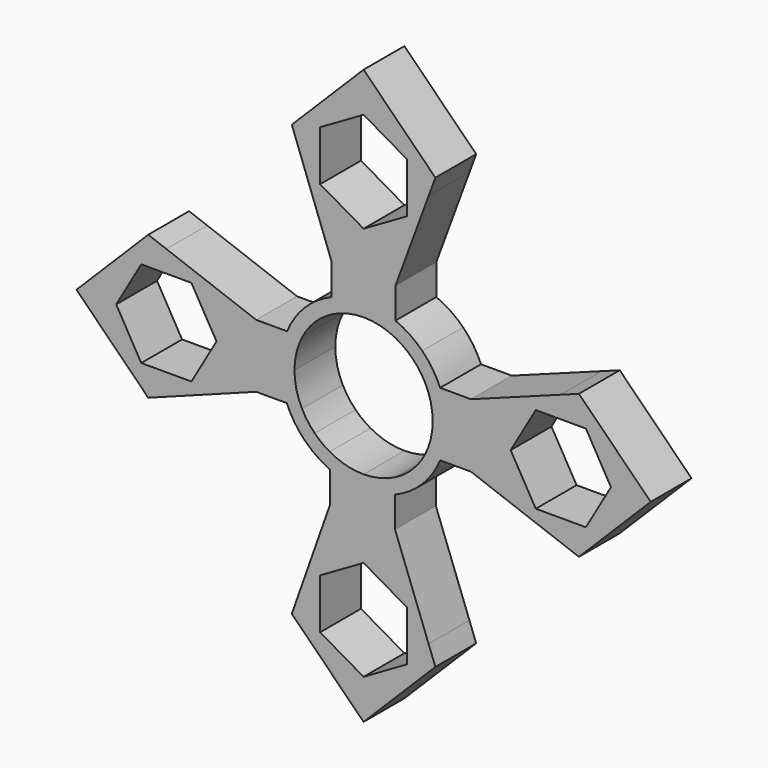
from build123d import *

# Parameters (mm, degrees)
F1_DEPTH = 8


with BuildPart() as f1:
    # F0 (on Front) → F1 (new body)
    with BuildSketch(Plane.XZ):
        Polygon((0, 23.0557063947), (0, 16.8315059189), (5, 16.8315059189), (10.202977498, 30.9157529595), (6.807, 30.9157529595), (6.807, 26.9857296771), align=None)
        Polygon((10.202977498, 30.9157529595), (11.25, 33.75), (0, 45), (0, 38.7757995242), (6.807, 34.8457762418), (6.807, 30.9157529595), align=None)
        Polygon((-5, 16.8315059189), (0, 16.8315059189), (0, 23.0557063947), (-6.807, 26.9857296771), (-6.807, 30.9157529595), (-10.202977498, 30.9157529595), align=None)
        Polygon((0, 45), (-11.25, 33.75), (-10.202977498, 30.9157529595), (-6.807, 30.9157529595), (-6.807, 34.8457762418), (0, 38.7757995242), align=None)
        Polygon((4.9234117813, -16.8315059189), (0, -16.8315059189), (0, -23.0557063947), (6.807, -26.9857296771), (6.807, -30.9157529595), (10.1901471638, -30.9157529595), align=None)
        Polygon((0, -45), (11.25, -33.75), (10.1901471638, -30.9157529595), (6.807, -30.9157529595), (6.807, -34.8457762418), (0, -38.7757995242), align=None)
        Polygon((0, -23.0557063947), (0, -16.8315059189), (-5.2934198313, -16.8315059189), (-10.2521322445, -30.9157529595), (-6.807, -30.9157529595), (-6.807, -26.9857296771), align=None)
        Polygon((-10.2521322445, -30.9157529595), (-11.25, -33.75), (0, -45), (0, -38.7757995242), (-6.807, -34.8457762418), (-6.807, -30.9157529595), align=None)
        Polygon((23.0557063947, 0), (16.8315059189, 0), (16.8315059189, -5), (30.9157529595, -10.202977498), (30.9157529595, -6.807), (26.9857296771, -6.807), align=None)
        Polygon((30.9157529595, -6.807), (30.9157529595, -10.202977498), (33.75, -11.25), (45, 0), (38.7757995242, 0), (34.8457762418, -6.807), align=None)
        Polygon((16.8315059189, 5), (16.8315059189, 0), (23.0557063947, 0), (26.9857296771, 6.807), (30.9157529595, 6.807), (30.9157529595, 10.202977498), align=None)
        Polygon((33.75, 11.25), (30.9157529595, 10.202977498), (30.9157529595, 6.807), (34.8457762418, 6.807), (38.7757995242, 0), (45, 0), align=None)
        Polygon((-23.0557063947, 0), (-16.8315059189, 0), (-16.8315059189, 5), (-30.9157529595, 10.202977498), (-30.9157529595, 6.807), (-26.9857296771, 6.807), align=None)
        Polygon((-30.9157529595, 10.202977498), (-33.75, 11.25), (-45, 0), (-38.7757995242, 0), (-34.8457762418, 6.807), (-30.9157529595, 6.807), align=None)
        Polygon((-16.8315059189, -4.9234117813), (-16.8315059189, 0), (-23.0557063947, 0), (-26.9857296771, -6.807), (-30.9157529595, -6.807), (-30.9157529595, -10.1901471638), align=None)
        Polygon((-45, 0), (-33.75, -11.25), (-30.9157529595, -10.1901471638), (-30.9157529595, -6.807), (-34.8457762418, -6.807), (-38.7757995242, 0), align=None)
        with BuildLine():
            Line((0, -16.8315059189), (0, -13))
            ThreePointArc((0, -13), (-2.7059805904, -12.7152534007), (-5.2934198313, -11.8734875453))
            Line((-5.2934198313, -11.8734875453), (-5.2934198313, -16.8315059189))
            Line((-5.2934198313, -16.8315059189), (0, -16.8315059189))
        make_face()
        with BuildLine():
            ThreePointArc((4.9234117813, -12.031625677), (2.5088708814, -12.7556092328), (0, -13))
            Line((0, -13), (0, -16.8315059189))
            Line((0, -16.8315059189), (4.9234117813, -16.8315059189))
            Line((4.9234117813, -16.8315059189), (4.9234117813, -12.031625677))
        make_face()
        with BuildLine():
            ThreePointArc((4.9234117813, -9.6478773263), (2.5318451875, -10.5314424662), (0, -10.8315059189))
            Line((0, -10.8315059189), (0, -13))
            ThreePointArc((0, -13), (2.5088708814, -12.7556092328), (4.9234117813, -12.031625677))
            Line((4.9234117813, -12.031625677), (4.9234117813, -9.6478773263))
        make_face()
        with BuildLine():
            Line((0, -13), (0, -10.8315059189))
            ThreePointArc((0, -10.8315059189), (-2.7353719229, -10.4804227451), (-5.2934198313, -9.4499326432))
            Line((-5.2934198313, -9.4499326432), (-5.2934198313, -11.8734875453))
            ThreePointArc((-5.2934198313, -11.8734875453), (-2.7059805904, -12.7152534007), (0, -13))
        make_face()
        with BuildLine():
            ThreePointArc((-5.2934198313, -9.4499326432), (-6.5378382821, -8.63586655), (-7.6590312857, -7.6590312857))
            Line((-7.6590312857, -7.6590312857), (-9.1923881554, -9.1923881554))
            ThreePointArc((-9.1923881554, -9.1923881554), (-7.3659168976, -10.7118284274), (-5.2934198313, -11.8734875453))
            Line((-5.2934198313, -11.8734875453), (-5.2934198313, -9.4499326432))
        make_face()
        with BuildLine():
            Line((-9.1923881554, -9.1923881554), (-7.6590312857, -7.6590312857))
            ThreePointArc((-7.6590312857, -7.6590312857), (-8.7608889358, -6.3693284989), (-9.6478773263, -4.9234117813))
            Line((-9.6478773263, -4.9234117813), (-12.031625677, -4.9234117813))
            ThreePointArc((-12.031625677, -4.9234117813), (-10.8245429747, -7.1992547802), (-9.1923881554, -9.1923881554))
        make_face()
        with BuildLine():
            ThreePointArc((-9.6478773263, -4.9234117813), (-10.5314424662, -2.5318451875), (-10.8315059189, 0))
            Line((-10.8315059189, 0), (-13, 0))
            ThreePointArc((-13, 0), (-12.7556092328, -2.5088708814), (-12.031625677, -4.9234117813))
            Line((-12.031625677, -4.9234117813), (-9.6478773263, -4.9234117813))
        make_face()
        with BuildLine():
            ThreePointArc((-12.031625677, -4.9234117813), (-12.7556092328, -2.5088708814), (-13, 0))
            Line((-13, 0), (-16.8315059189, 0))
            Line((-16.8315059189, 0), (-16.8315059189, -4.9234117813))
            Line((-16.8315059189, -4.9234117813), (-12.031625677, -4.9234117813))
        make_face()
        with BuildLine():
            Line((-16.8315059189, 0), (-13, 0))
            ThreePointArc((-13, 0), (-12.747548784, 2.5495097568), (-12, 5))
            Line((-12, 5), (-16.8315059189, 5))
            Line((-16.8315059189, 5), (-16.8315059189, 0))
        make_face()
        with BuildLine():
            Line((-13, 0), (-10.8315059189, 0))
            ThreePointArc((-10.8315059189, 0), (-10.5212893153, 2.5737116418), (-9.6084088418, 5))
            Line((-9.6084088418, 5), (-12, 5))
            ThreePointArc((-12, 5), (-12.747548784, 2.5495097568), (-13, 0))
        make_face()
        with BuildLine():
            ThreePointArc((-9.6084088418, 5), (-8.7354870491, 6.4041226165), (-7.6590312857, 7.6590312857))
            Line((-7.6590312857, 7.6590312857), (-9.1923881554, 9.1923881554))
            ThreePointArc((-9.1923881554, 9.1923881554), (-10.8015442666, 7.2337156051), (-12, 5))
            Line((-12, 5), (-9.6084088418, 5))
        make_face()
        with BuildLine():
            Line((-9.1923881554, 9.1923881554), (-7.6590312857, 7.6590312857))
            ThreePointArc((-7.6590312857, 7.6590312857), (-6.4041226165, 8.7354870491), (-5, 9.6084088418))
            Line((-5, 9.6084088418), (-5, 12))
            ThreePointArc((-5, 12), (-7.2337156051, 10.8015442666), (-9.1923881554, 9.1923881554))
        make_face()
        with BuildLine():
            Line((0, 16.8315059189), (0, 13))
            ThreePointArc((0, 13), (2.5495097568, 12.747548784), (5, 12))
            Line((5, 12), (5, 16.8315059189))
            Line((5, 16.8315059189), (0, 16.8315059189))
        make_face()
        with BuildLine():
            ThreePointArc((-5, 9.6084088418), (-2.5737116418, 10.5212893153), (0, 10.8315059189))
            Line((0, 10.8315059189), (0, 13))
            ThreePointArc((0, 13), (-2.5495097568, 12.747548784), (-5, 12))
            Line((-5, 12), (-5, 9.6084088418))
        make_face()
        with BuildLine():
            Line((0, 13), (0, 10.8315059189))
            ThreePointArc((0, 10.8315059189), (2.5737116418, 10.5212893153), (5, 9.6084088418))
            Line((5, 9.6084088418), (5, 12))
            ThreePointArc((5, 12), (2.5495097568, 12.747548784), (0, 13))
        make_face()
        with BuildLine():
            ThreePointArc((5, 9.6084088418), (6.4041226165, 8.7354870491), (7.6590312857, 7.6590312857))
            Line((7.6590312857, 7.6590312857), (9.1923881554, 9.1923881554))
            ThreePointArc((9.1923881554, 9.1923881554), (7.2337156051, 10.8015442666), (5, 12))
            Line((5, 12), (5, 9.6084088418))
        make_face()
        with BuildLine():
            ThreePointArc((7.6590312857, 7.6590312857), (8.7354870491, 6.4041226165), (9.6084088418, 5))
            Line((9.6084088418, 5), (12, 5))
            ThreePointArc((12, 5), (10.8015442666, 7.2337156051), (9.1923881554, 9.1923881554))
            Line((9.1923881554, 9.1923881554), (7.6590312857, 7.6590312857))
        make_face()
        with BuildLine():
            ThreePointArc((9.6084088418, 5), (10.5212893153, 2.5737116418), (10.8315059189, 0))
            Line((10.8315059189, 0), (13, 0))
            ThreePointArc((13, 0), (12.747548784, 2.5495097568), (12, 5))
            Line((12, 5), (9.6084088418, 5))
        make_face()
        with BuildLine():
            Line((9.1923881554, -9.1923881554), (7.6590312857, -7.6590312857))
            ThreePointArc((7.6590312857, -7.6590312857), (6.3693284989, -8.7608889358), (4.9234117813, -9.6478773263))
            Line((4.9234117813, -9.6478773263), (4.9234117813, -12.031625677))
            ThreePointArc((4.9234117813, -12.031625677), (7.1992547802, -10.8245429747), (9.1923881554, -9.1923881554))
        make_face()
        with BuildLine():
            ThreePointArc((12, 5), (12.747548784, 2.5495097568), (13, 0))
            Line((13, 0), (16.8315059189, 0))
            Line((16.8315059189, 0), (16.8315059189, 5))
            Line((16.8315059189, 5), (12, 5))
        make_face()
        with BuildLine():
            ThreePointArc((-5, 12), (-2.5495097568, 12.747548784), (0, 13))
            Line((0, 13), (0, 16.8315059189))
            Line((0, 16.8315059189), (-5, 16.8315059189))
            Line((-5, 16.8315059189), (-5, 12))
        make_face()
        with BuildLine():
            Line((16.8315059189, 0), (13, 0))
            ThreePointArc((13, 0), (12.747548784, -2.5495097568), (12, -5))
            Line((12, -5), (16.8315059189, -5))
            Line((16.8315059189, -5), (16.8315059189, 0))
        make_face()
        with BuildLine():
            Line((13, 0), (10.8315059189, 0))
            ThreePointArc((10.8315059189, 0), (10.5212893153, -2.5737116418), (9.6084088418, -5))
            Line((9.6084088418, -5), (12, -5))
            ThreePointArc((12, -5), (12.747548784, -2.5495097568), (13, 0))
        make_face()
        with BuildLine():
            Line((12, -5), (9.6084088418, -5))
            ThreePointArc((9.6084088418, -5), (8.7354870491, -6.4041226165), (7.6590312857, -7.6590312857))
            Line((7.6590312857, -7.6590312857), (9.1923881554, -9.1923881554))
            ThreePointArc((9.1923881554, -9.1923881554), (10.8015442666, -7.2337156051), (12, -5))
        make_face()
    extrude(amount=F1_DEPTH)


solid = f1.part
